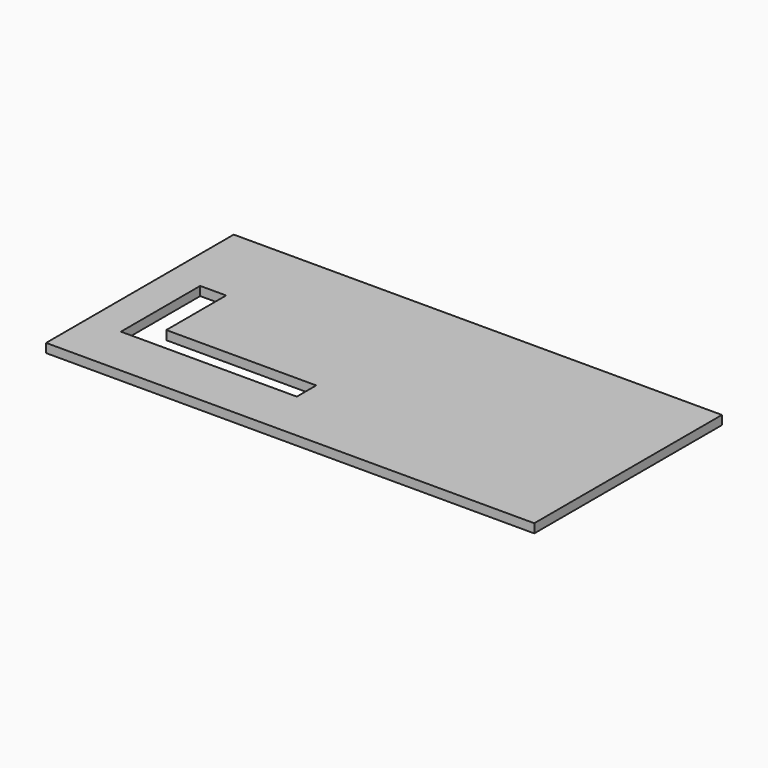
from build123d import *

# Parameters (mm, degrees)
F0_W     = 271.881461
F0_H     = 130.626835
F1_DEPTH = 5


with BuildPart() as f1:
    # F0 (on Top) → F1 (new body)
    with BuildSketch(Plane.XY):
        with Locations((-6.64641, 1.200232)):
            Rectangle(F0_W, F0_H)
        Polygon((-123.783566, -35.522189), (-123.783566, 19.667186), (-109.342627, 19.667186), (-109.342627, -22.000557), (-25.832213, -22.000557), (-25.832213, -35.522189), align=None, mode=Mode.SUBTRACT)
    extrude(amount=F1_DEPTH)


solid = f1.part
